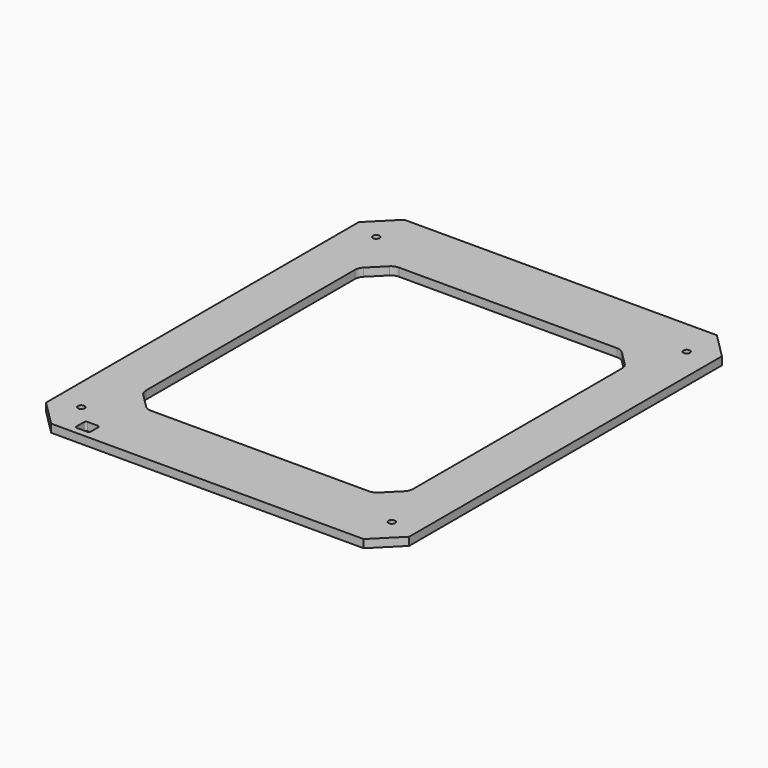
from build123d import *

# Parameters (mm, degrees)
SKETCH_R        = 3.25
PAD_DEPTH       = 8
CHAMFER_SIZE    = 25
CHAMFER001_SIZE = 20
FILLET_R        = 10
SKETCH001_W     = 14
SKETCH001_H     = 13
POCKET_DEPTH    = 8
FILLET001_R     = 2


with BuildPart() as fillet_body:
    # Sketch → Pad (new body)
    with BuildSketch(Plane.XY):
        Polygon((0, 218.25), (-179.5, 218.25), (-179.5, 0), (-132, 0), (-132, 153.25), (0, 153.25), align=None)
        with Locations((-153.5, 182.25)):
            Circle(SKETCH_R, mode=Mode.SUBTRACT)
    extrude(amount=PAD_DEPTH)

    # Chamfer
    chamfer_edges = [fillet_body.edges().sort_by_distance(p)[0] for p in [
        (-179.5, 218.25, 4),
    ]]
    chamfer(chamfer_edges, length=CHAMFER_SIZE)

    # Chamfer001
    chamfer001_edges = [fillet_body.edges().sort_by_distance(p)[0] for p in [
        (-132, 153.25, 4),
    ]]
    chamfer(chamfer001_edges, length=CHAMFER001_SIZE)

    # Fillet
    fillet_edges = [fillet_body.edges().sort_by_distance(p)[0] for p in [
        (-112, 153.25, 4),
        (-132, 133.25, 4),
    ]]
    fillet(fillet_edges, radius=FILLET_R)


with BuildPart() as part_mirroring:
    # Part__Mirroring: instance of Fillet body
    add(fillet_body.part.mirror(Plane(origin=(0, 0, 0), x_dir=(1, 0, 0), z_dir=(0, 1, 0))))


with BuildPart() as fusion:
    # Fusion base: copy of Fillet body
    add(fillet_body.part)

    # Fusion: union Part__Mirroring
    add(part_mirroring.part)


with BuildPart() as fillet001:
    # Part__Mirroring001: instance of Fusion
    add(fusion.part.mirror(Plane(origin=(0, 0, 0), x_dir=(0, -1, 0), z_dir=(1, 0, 0))))

    # Fusion001: union Fusion
    add(fusion.part)

    # Sketch001 → Pocket (cut)
    with BuildSketch(Plane.XY.offset(8)):
        with Locations((-129.25, -205)):
            Rectangle(SKETCH001_W, SKETCH001_H)
    extrude(amount=-POCKET_DEPTH, mode=Mode.SUBTRACT)

    # Fillet001
    fillet001_edges = [fillet001.edges().sort_by_distance(p)[0] for p in [
        (-122.25, -198.5, 4),
        (-136.25, -198.5, 4),
        (-136.25, -211.5, 4),
        (-122.25, -211.5, 4),
    ]]
    fillet(fillet001_edges, radius=FILLET001_R)


solid = fillet001.part
